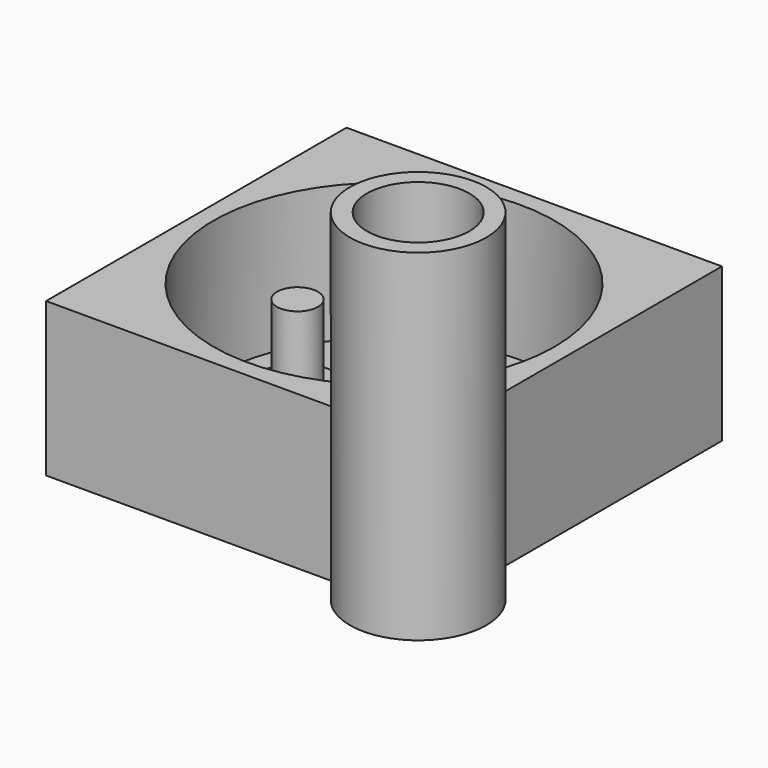
from build123d import *

# Parameters (mm, degrees)
BOX001_W            = 5
BOX001_H            = 5
BOX001_DEPTH        = 5
CYLINDER157_R       = 2.25
CYLINDER157_DEPTH   = 7
CYLINDER156_R       = 1.2
CYLINDER156_DEPTH   = 14
CYLINDER147_R       = 1
CYLINDER147_DEPTH   = 1
ARRAY_COUNT         = 3
CYLINDER153_R       = 10
CYLINDER153_DEPTH   = 9
CUT_PLACEMENT_ANGLE = 180
CYLINDER158_R       = 3
CYLINDER158_DEPTH   = 23
CYLINDER_R          = 1
CYLINDER_DEPTH      = 10
CYLINDER159_R       = 4
CYLINDER159_DEPTH   = 20
BOX_W               = 22
BOX_H               = 22
BOX_DEPTH           = 9


with BuildPart() as cube001:
    # Box001 → Box001 (new body)
    with BuildSketch(Plane(origin=(5, -9, 3), x_dir=(1, 0, 0), z_dir=(0, 0, 1))):
        with Locations((2.5, 2.5)):
            Rectangle(BOX001_W, BOX001_H)
    extrude(amount=BOX001_DEPTH)


with BuildPart() as sealsubtraction:
    # Cylinder157 → Cylinder157 (new body)
    with BuildSketch(Plane.XY.offset(4.5)):
        Circle(CYLINDER157_R)
    extrude(amount=CYLINDER157_DEPTH)


with BuildPart() as bottomwireoutlet:
    # Cylinder156 → Cylinder156 (new body)
    with BuildSketch(Plane.XY.offset(-7)):
        Circle(CYLINDER156_R)
    extrude(amount=CYLINDER156_DEPTH)


with BuildPart() as sealarray:
    # Cylinder147 → Cylinder147 (new body)
    with BuildSketch(Plane.XY.offset(4.5)):
        Circle(CYLINDER147_R)
    extrude(amount=CYLINDER147_DEPTH)

    # Fusion: union SealSubtraction, BottomWireOutlet
    add(sealsubtraction.part)
    add(bottomwireoutlet.part)


with BuildPart() as sealarray_1:
    # Fusion placement: moved
    add(sealarray.part.moved(Location((4.25, 0, 0))))

    # Array: SealArray ×3 about axis
    array_axis = Axis((0, 0, 0), (0, 0, 1))


with BuildPart() as sealarray_2:
    add(sealarray_1.part)
    for i in range(1, ARRAY_COUNT):
        add(sealarray_1.part.rotate(array_axis, i * 360 / ARRAY_COUNT))


with BuildPart() as cut:
    # Cylinder153 → Cylinder153 (new body)
    with BuildSketch(Plane.XY.offset(-1)):
        Circle(CYLINDER153_R)
    extrude(amount=CYLINDER153_DEPTH)

    # Cut: cut SealArray
    add(sealarray_2.part, mode=Mode.SUBTRACT)


with BuildPart() as cut_1:
    # Cut placement: moved
    add(cut.part.moved(Location((0, 0, 9))).rotate(Axis((0, 0, 9), (1, 0, 0)), CUT_PLACEMENT_ANGLE))


with BuildPart() as cylinder001:
    # Cylinder158 → Cylinder158 (new body)
    with BuildSketch(Plane(origin=(10, -10, 3), x_dir=(1, 0, 0), z_dir=(0, 0, 1))):
        Circle(CYLINDER158_R)
    extrude(amount=CYLINDER158_DEPTH)


with BuildPart() as fusion003:
    # Cylinder → Cylinder (new body)
    with BuildSketch(Plane.XY.offset(6)):
        Circle(CYLINDER_R)
    extrude(amount=CYLINDER_DEPTH)

    # Fusion001: union Cylinder001
    add(cylinder001.part)

    # Fusion003: union Cut
    add(cut_1.part)


with BuildPart() as cylinder002:
    # Cylinder159 → Cylinder159 (new body)
    with BuildSketch(Plane(origin=(10, -10, 0), x_dir=(1, 0, 0), z_dir=(0, 0, 1))):
        Circle(CYLINDER159_R)
    extrude(amount=CYLINDER159_DEPTH)


with BuildPart() as cut002:
    # Box → Box (new body)
    with BuildSketch(Plane(origin=(-11, -11, 0), x_dir=(1, 0, 0), z_dir=(0, 0, 1))):
        with Locations((11, 11)):
            Rectangle(BOX_W, BOX_H)
    extrude(amount=BOX_DEPTH)

    # Fusion002: union Cylinder002
    add(cylinder002.part)

    # Cut001: cut Fusion003
    add(fusion003.part, mode=Mode.SUBTRACT)

    # Cut002: cut Cube001
    add(cube001.part, mode=Mode.SUBTRACT)


solid = cut002.part
